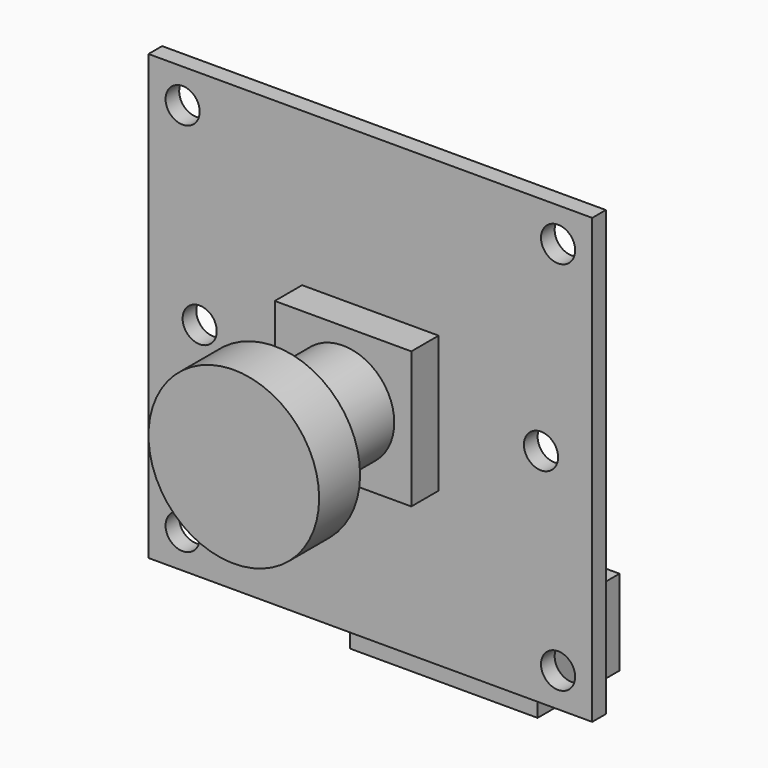
from build123d import *

# Parameters (mm, degrees)
F0_W     = 26
F0_H     = 26
F0_R     = 1
F1_DEPTH = 1
F2_W     = 11
F2_H     = 5
F3_DEPTH = 6
F4_W     = 8
F4_H     = 8
F5_DEPTH = 2
F6_R     = 3
F7_DEPTH = 5
F8_R     = 5
F9_DEPTH = 3


with BuildPart() as f1:
    # F0 (on Front) → F1 (new body)
    with BuildSketch(Plane.XZ):
        Rectangle(F0_W, F0_H)
        with Locations((-11, -11)):
            Circle(F0_R, mode=Mode.SUBTRACT)
        with Locations((11, -11)):
            Circle(F0_R, mode=Mode.SUBTRACT)
        with Locations((-10, 0)):
            Circle(F0_R, mode=Mode.SUBTRACT)
        with Locations((-11, 11)):
            Circle(F0_R, mode=Mode.SUBTRACT)
        with Locations((10, 0)):
            Circle(F0_R, mode=Mode.SUBTRACT)
        with Locations((11, 11)):
            Circle(F0_R, mode=Mode.SUBTRACT)
    extrude(amount=F1_DEPTH)

    # F2 (on face) → F3 (join)
    with BuildSketch(Plane(origin=(0, 0, 0), x_dir=(-1, 0, 0), z_dir=(0, 1, 0))):
        with Locations((-3.5, -12)):
            Rectangle(F2_W, F2_H)
    extrude(amount=F3_DEPTH)

    # F4 (on face) → F5 (join)
    with BuildSketch(Plane.XZ.offset(1)):
        Rectangle(F4_W, F4_H)
    extrude(amount=F5_DEPTH)

    # F6 (on face) → F7 (join)
    with BuildSketch(Plane.XZ.offset(3)):
        Circle(F6_R)
    extrude(amount=F7_DEPTH)

    # F8 (on face) → F9 (join)
    with BuildSketch(Plane.XZ.offset(8)):
        Circle(F8_R)
    extrude(amount=F9_DEPTH)


solid = f1.part
